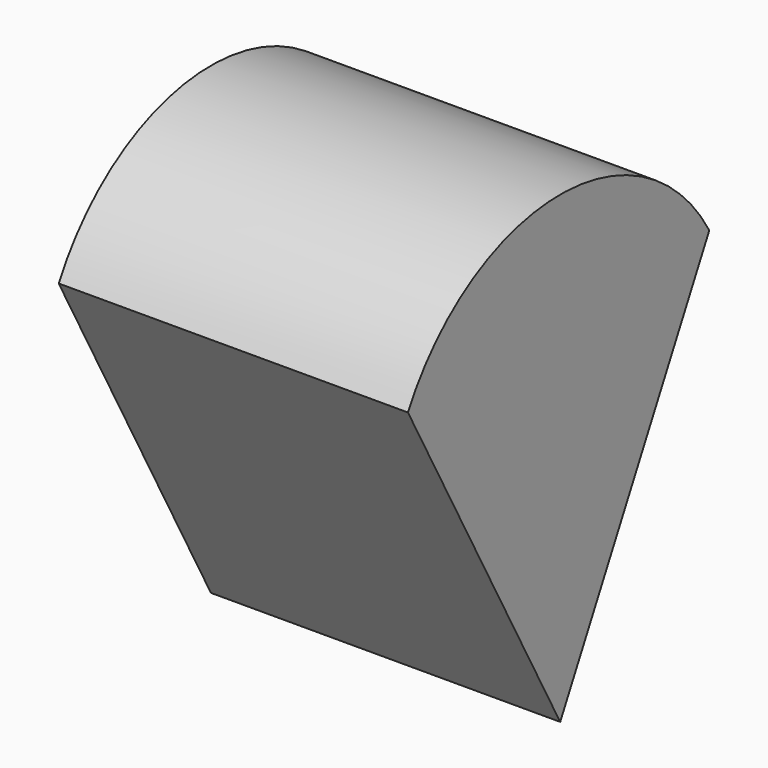
from build123d import *

# Parameters (mm, degrees)
F1_DEPTH = 82.55


with BuildPart() as f1:
    # F0 (on Right) → F1 (new body)
    with BuildSketch(Plane.YZ):
        with BuildLine():
            Line((0, -45.535062), (44.052039, 38.846605))
            ThreePointArc((44.052039, 38.846605), (-0.97005, 64.201167), (-44.993944, 37.150491))
            Line((-44.993944, 37.150491), (0, -45.535062))
        make_face()
    extrude(amount=F1_DEPTH)


solid = f1.part
